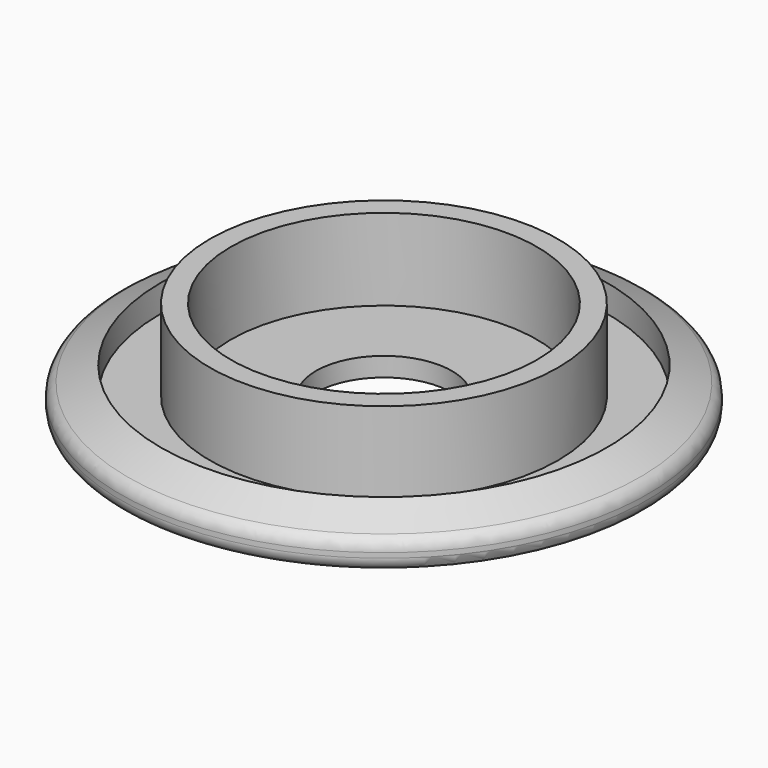
from build123d import *

# Parameters (mm, degrees)
F2_R = 1


with BuildPart() as f1:
    # F0 (on Front) → F1 (revolve)
    with BuildSketch(Plane.XZ):
        Polygon((-19.4, 0), (-5, 0), (-5, 1.4), (-11.25, 1.4), (-11.25, 7.4), (-12.8, 7.4), (-12.8, 1.4), (-16.4, 1.4), (-16.4, 3.4), (-19.4, 2.001077), align=None)
    revolve(axis=Axis((0, 0, 4.390553), (0, 0, 1)))

    # F2
    f2_edges = [f1.edges().sort_by_distance(p)[0] for p in [
        (19.4, 0, 2.001077),
        (19.4, 0, 0),
    ]]
    fillet(f2_edges, radius=F2_R)


solid = f1.part
